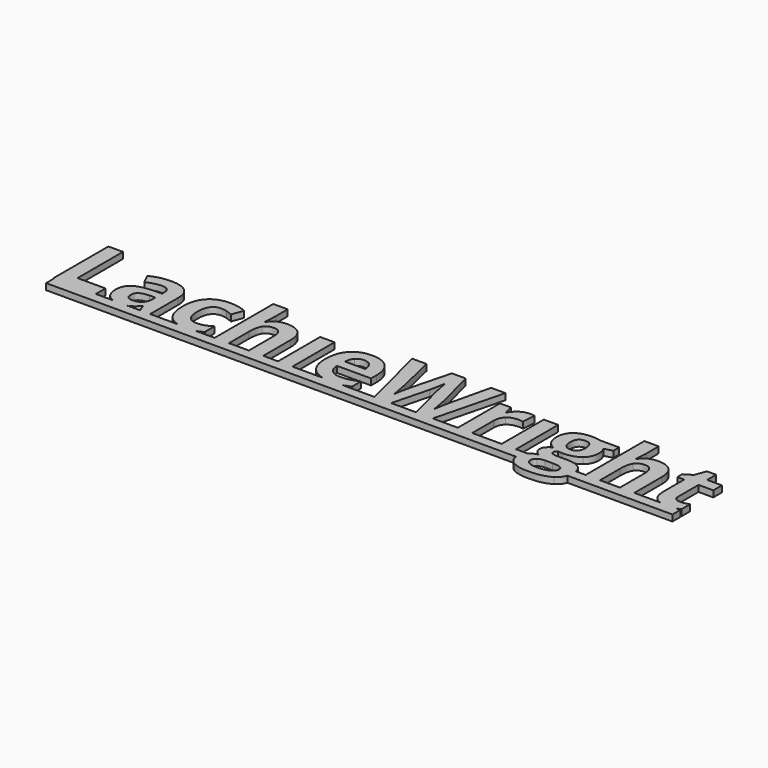
from build123d import *

# Parameters (mm, degrees)
F0_W     = 3.3911372586
F0_H     = 12.4329838212
F1_DEPTH = 1.47651
F3_DEPTH = 25


with BuildPart() as f1:
    # F0 (on Top) → F1 (new body)
    with BuildSketch(Plane.XY):
        Polygon((2.0460691749, 0), (2.218485577, 0), (12.0878208474, 0), (12.0878208474, 2.846704939), (5.4941405323, 2.846704939), (5.4941405323, 16.2582435831), (2.0460691749, 16.2582435831), align=None)
        with BuildLine():
            Line((12.0878208474, 0), (2.218485577, 0))
            Line((2.218485577, 0), (2.218485577, -2.3320410401))
            Line((2.218485577, -2.3320410401), (113.0944891919, -2.3320410401))
            add(Edge.make_bspline(
                [(113.0944891919, -2.3320410401), (113.0817953219, -2.1817343027), (113.0817953219, -2.0247188879)],
                knots=[0.9038659725, 0.9038659725, 0.9038659725, 1, 1, 1], degree=2))
            add(Edge.make_bspline(
                [(113.0817953219, -2.0247188879), (113.0817953219, -0.900270437), (113.7827964132, -0.1441144375)],
                knots=[0, 0, 0, 1, 1, 1], degree=2))
            add(Edge.make_bspline(
                [(113.7827964132, -0.1441144375), (113.8515240257, -0.0699793224), (113.9265451845, 0)],
                knots=[0, 0, 0, 0.0980420907, 0.0980420907, 0.0980420907], degree=2))
            Line((113.9265451845, 0), (111.2349954927, 0))
            Line((111.2349954927, 0), (107.8438582341, 0))
            Line((107.8438582341, 0), (100.8943398017, 0))
            Line((100.8943398017, 0), (97.5032025431, 0))
            Line((97.5032025431, 0), (91.585614651, 0))
            Line((91.585614651, 0), (87.6607202163, 0))
            Line((87.6607202163, 0), (81.7680409926, 0))
            Line((81.7680409926, 0), (77.8538217014, 0))
            Line((77.8538217014, 0), (70.157839457, 0))
            add(Edge.make_bspline(
                [(70.157839457, 0), (70.1414446078, -0.0035884674), (70.1250177919, -0.0071167623)],
                knots=[0.9837451644, 0.9837451644, 0.9837451644, 1, 1, 1], degree=2))
            add(Edge.make_bspline(
                [(70.1250177919, -0.0071167623), (69.1144375385, -0.2241780139), (67.6555012573, -0.2241780139)],
                knots=[0, 0, 0, 1, 1, 1], degree=2))
            add(Edge.make_bspline(
                [(67.6555012573, -0.2241780139), (66.5525473619, -0.2241780139), (65.6266267479, 0)],
                knots=[0, 0, 0, 0.3676861883, 0.3676861883, 0.3676861883], degree=2))
            Line((65.6266267479, 0), (58.4713194477, 0))
            Line((58.4713194477, 0), (55.0801821891, 0))
            Line((55.0801821891, 0), (51.5894102576, 0))
            Line((51.5894102576, 0), (48.198272999, 0))
            Line((48.198272999, 0), (43.5047682308, 0))
            Line((43.5047682308, 0), (40.1136309721, 0))
            Line((40.1136309721, 0), (35.662053282, 0))
            add(Edge.make_bspline(
                [(35.662053282, 0), (35.6158427474, -0.0120534345), (35.5695782132, -0.0231294776)],
                knots=[0.9449086109, 0.9449086109, 0.9449086109, 1, 1, 1], degree=2))
            add(Edge.make_bspline(
                [(35.5695782132, -0.0231294776), (34.7298002562, -0.2241780139), (33.4523414148, -0.2241780139)],
                knots=[0, 0, 0, 1, 1, 1], degree=2))
            add(Edge.make_bspline(
                [(33.4523414148, -0.2241780139), (32.3638402184, -0.2241780139), (31.4794899661, 0)],
                knots=[0, 0, 0, 0.1875523378, 0.1875523378, 0.1875523378], degree=2))
            Line((31.4794899661, 0), (24.9086682165, 0))
            Line((24.9086682165, 0), (22.542344736, 0))
            Line((22.542344736, 0), (19.5084661005, 0))
            add(Edge.make_bspline(
                [(19.5084661005, 0), (18.7366016501, -0.2241780139), (17.670920909, -0.2241780139)],
                knots=[0.2677635541, 0.2677635541, 0.2677635541, 1, 1, 1], degree=2))
            add(Edge.make_bspline(
                [(17.670920909, -0.2241780139), (16.8337878676, -0.2241780139), (16.1632315449, 0)],
                knots=[0, 0, 0, 0.4677071733, 0.4677071733, 0.4677071733], degree=2))
            Line((16.1632315449, 0), (12.0878208474, 0))
        make_face()
        with BuildLine():
            add(Edge.make_bspline(
                [(16.1632315449, 0), (15.4000781429, 0.2551347414), (14.8526830194, 0.8006357641)],
                knots=[0.4677071733, 0.4677071733, 0.4677071733, 1, 1, 1], degree=2))
            Line((16.1632315449, 0), (19.5084661005, 0))
            add(Edge.make_bspline(
                [(20.0336860084, 0.193931774), (19.790720787, 0.0819772112), (19.5084661005, 0)],
                knots=[0, 0, 0, 0.2677635541, 0.2677635541, 0.2677635541], degree=2))
            add(Edge.make_bspline(
                [(21.7950846895, 1.6902310576), (20.9410732078, 0.6120415619), (20.0336860084, 0.193931774)],
                knots=[0, 0, 0, 1, 1, 1], degree=2))
            Line((21.7950846895, 1.6902310576), (21.8840442188, 1.6902310576))
            Line((21.8840442188, 1.6902310576), (22.542344736, 0))
            Line((22.542344736, 0), (24.9086682165, 0))
            Line((24.9086682165, 0), (24.9086682165, 8.2839113726))
            add(Edge.make_bspline(
                [(23.5742752764, 11.598543436), (24.9086682165, 10.5078996062), (24.9086682165, 8.2839113726)],
                knots=[0, 0, 0, 1, 1, 1], degree=2))
            add(Edge.make_bspline(
                [(19.738340371, 12.6891872657), (22.2398823362, 12.6891872657), (23.5742752764, 11.598543436)],
                knots=[0, 0, 0, 1, 1, 1], degree=2))
            add(Edge.make_bspline(
                [(14.9807847417, 11.5647388148), (17.1264885895, 12.6891872657), (19.738340371, 12.6891872657)],
                knots=[0, 0, 0, 1, 1, 1], degree=2))
            Line((14.9807847417, 11.5647388148), (16.1016748114, 9.2731413389))
            add(Edge.make_bspline(
                [(19.6066802676, 10.1734117759), (18.1157185558, 10.1734117759), (16.1016748114, 9.2731413389)],
                knots=[0, 0, 0, 1, 1, 1], degree=2))
            add(Edge.make_bspline(
                [(21.5424396261, 8.2839113726), (21.5424396261, 10.1734117759), (19.6066802676, 10.1734117759)],
                knots=[0, 0, 0, 1, 1, 1], degree=2))
            Line((21.5424396261, 8.2839113726), (21.5424396261, 7.739479053))
            Line((21.5424396261, 7.739479053), (19.3825022536, 7.6718698107))
            add(Edge.make_bspline(
                [(15.2085211368, 6.6328225079), (16.5927314134, 7.5722351378), (19.3825022536, 7.6718698107)],
                knots=[0, 0, 0, 1, 1, 1], degree=2))
            add(Edge.make_bspline(
                [(13.8243108602, 3.7149499454), (13.8243108602, 5.6934098781), (15.2085211368, 6.6328225079)],
                knots=[0, 0, 0, 1, 1, 1], degree=2))
            add(Edge.make_bspline(
                [(14.8526830194, 0.8006357641), (13.8243108602, 1.8254495422), (13.8243108602, 3.7149499454)],
                knots=[0, 0, 0, 1, 1, 1], degree=2))
        make_face()
        with BuildLine():
            Line((20.229396973, 5.7147601651), (21.5424396261, 5.7610191204))
            Line((21.5424396261, 5.7610191204), (21.5424396261, 4.7362053423))
            add(Edge.make_bspline(
                [(20.8361009631, 2.9356644684), (21.5424396261, 3.6153152726), (21.5424396261, 4.7362053423)],
                knots=[0, 0, 0, 1, 1, 1], degree=2))
            add(Edge.make_bspline(
                [(18.9483797504, 2.2560136642), (20.1297623001, 2.2560136642), (20.8361009631, 2.9356644684)],
                knots=[0, 0, 0, 1, 1, 1], degree=2))
            add(Edge.make_bspline(
                [(17.3044076481, 3.6935996584), (17.3044076481, 2.2560136642), (18.9483797504, 2.2560136642)],
                knots=[0, 0, 0, 1, 1, 1], degree=2))
            add(Edge.make_bspline(
                [(18.0267590264, 5.1827821796), (17.3044076481, 4.6935047682), (17.3044076481, 3.6935996584)],
                knots=[0, 0, 0, 1, 1, 1], degree=2))
            add(Edge.make_bspline(
                [(20.229396973, 5.7147601651), (18.7491104047, 5.672059591), (18.0267590264, 5.1827821796)],
                knots=[0, 0, 0, 1, 1, 1], degree=2))
        make_face(mode=Mode.SUBTRACT)
        with BuildLine():
            Line((19.5084661005, 0), (16.1632315449, 0))
            add(Edge.make_bspline(
                [(17.670920909, -0.2241780139), (16.8337878676, -0.2241780139), (16.1632315449, 0)],
                knots=[0, 0, 0, 0.4677071733, 0.4677071733, 0.4677071733], degree=2))
            add(Edge.make_bspline(
                [(19.5084661005, 0), (18.7366016501, -0.2241780139), (17.670920909, -0.2241780139)],
                knots=[0.2677635541, 0.2677635541, 0.2677635541, 1, 1, 1], degree=2))
        make_face()
        with BuildLine():
            add(Edge.make_bspline(
                [(113.0944891919, -2.3320410401), (113.0817953219, -2.1817343027), (113.0817953219, -2.0247188879)],
                knots=[0.9038659725, 0.9038659725, 0.9038659725, 1, 1, 1], degree=2))
            Line((113.0944891919, -2.3320410401), (116.1558999712, -2.3320410401))
            add(Edge.make_bspline(
                [(116.0174597903, -1.7578402999), (116.0174597903, -2.0758882765), (116.1558999712, -2.3320410401)],
                knots=[0, 0, 0, 0.4537053946, 0.4537053946, 0.4537053946], degree=2))
            add(Edge.make_bspline(
                [(116.6455140675, -0.5960288466), (116.0174597903, -1.0354889216), (116.0174597903, -1.7578402999)],
                knots=[0, 0, 0, 1, 1, 1], degree=2))
            add(Edge.make_bspline(
                [(118.2058642122, -0.1565687716), (117.2735683446, -0.1565687716), (116.6455140675, -0.5960288466)],
                knots=[0, 0, 0, 1, 1, 1], degree=2))
            Line((118.2058642122, -0.1565687716), (119.963704512, -0.1565687716))
            add(Edge.make_bspline(
                [(121.8549841059, -0.4234473597), (121.2447217346, -0.1565687716), (119.963704512, -0.1565687716)],
                knots=[0, 0, 0, 1, 1, 1], degree=2))
            add(Edge.make_bspline(
                [(122.4652464772, -1.391327039), (122.4652464772, -0.6903259477), (121.8549841059, -0.4234473597)],
                knots=[0, 0, 0, 1, 1, 1], degree=2))
            add(Edge.make_bspline(
                [(122.0597952478, -2.3320410401), (122.4652464772, -1.9328648061), (122.4652464772, -1.391327039)],
                knots=[0.3737178865, 0.3737178865, 0.3737178865, 1, 1, 1], degree=2))
            Line((122.0597952478, -2.3320410401), (125.2332328811, -2.3320410401))
            add(Edge.make_bspline(
                [(125.4685201879, -0.8895952934), (125.4685201879, -1.6742444417), (125.2332328811, -2.3320410401)],
                knots=[0, 0, 0, 0.3597183273, 0.3597183273, 0.3597183273], degree=2))
            add(Edge.make_bspline(
                [(125.3840954484, 0), (125.4685201879, -0.4124558311), (125.4685201879, -0.8895952934)],
                knots=[0.7194792623, 0.7194792623, 0.7194792623, 1, 1, 1], degree=2))
            Line((125.3840954484, 0), (113.9265451845, 0))
            add(Edge.make_bspline(
                [(113.7827964132, -0.1441144375), (113.8515240257, -0.0699793224), (113.9265451845, 0)],
                knots=[0, 0, 0, 0.0980420907, 0.0980420907, 0.0980420907], degree=2))
            add(Edge.make_bspline(
                [(113.0817953219, -2.0247188879), (113.0817953219, -0.900270437), (113.7827964132, -0.1441144375)],
                knots=[0, 0, 0, 1, 1, 1], degree=2))
        make_face()
        with BuildLine():
            Line((116.1558999712, -2.3320410401), (113.0944891919, -2.3320410401))
            add(Edge.make_bspline(
                [(114.455330455, -4.565403046), (113.2138387862, -3.7452466327), (113.0944891919, -2.3320410401)],
                knots=[0, 0, 0, 0.9038659725, 0.9038659725, 0.9038659725], degree=2))
            add(Edge.make_bspline(
                [(118.4300422261, -5.4727902453), (115.8288655881, -5.4727902453), (114.455330455, -4.565403046)],
                knots=[0, 0, 0, 1, 1, 1], degree=2))
            add(Edge.make_bspline(
                [(123.6501874081, -4.2718365991), (121.8318546283, -5.4727902453), (118.4300422261, -5.4727902453)],
                knots=[0, 0, 0, 1, 1, 1], degree=2))
            add(Edge.make_bspline(
                [(125.2332328811, -2.3320410401), (124.8144325618, -3.5028879898), (123.6501874081, -4.2718365991)],
                knots=[0.3597183273, 0.3597183273, 0.3597183273, 1, 1, 1], degree=2))
            Line((125.2332328811, -2.3320410401), (122.0597952478, -2.3320410401))
            add(Edge.make_bspline(
                [(121.4315367462, -2.7577454097), (121.8178525621, -2.5702392822), (122.0597952478, -2.3320410401)],
                knots=[0, 0, 0, 0.3737178865, 0.3737178865, 0.3737178865], degree=2))
            add(Edge.make_bspline(
                [(118.5759358542, -3.2594771552), (120.3978270152, -3.2594771552), (121.4315367462, -2.7577454097)],
                knots=[0, 0, 0, 1, 1, 1], degree=2))
            add(Edge.make_bspline(
                [(116.6899938321, -2.8591592731), (117.362527874, -3.2594771552), (118.5759358542, -3.2594771552)],
                knots=[0, 0, 0, 1, 1, 1], degree=2))
            add(Edge.make_bspline(
                [(116.1558999712, -2.3320410401), (116.3225921131, -2.6404677737), (116.6899938321, -2.8591592731)],
                knots=[0.4537053946, 0.4537053946, 0.4537053946, 1, 1, 1], degree=2))
        make_face()
        with BuildLine():
            add(Edge.make_bspline(
                [(125.4685201879, -0.8895952934), (125.4685201879, -1.6742444417), (125.2332328811, -2.3320410401)],
                knots=[0, 0, 0, 0.3597183273, 0.3597183273, 0.3597183273], degree=2))
            Line((125.2332328811, -2.3320410401), (150, -2.3320410401))
            Line((150, -2.3320410401), (150, 0))
            Line((150, 0), (148.9757505124, 0))
            add(Edge.make_bspline(
                [(148.9757505124, 0), (148.0452741685, -0.2241780139), (146.8864164729, -0.2241780139)],
                knots=[0.3725049801, 0.3725049801, 0.3725049801, 1, 1, 1], degree=2))
            add(Edge.make_bspline(
                [(146.8864164729, -0.2241780139), (145.9369175261, -0.2241780139), (145.2282453922, 0)],
                knots=[0, 0, 0, 0.4664939231, 0.4664939231, 0.4664939231], degree=2))
            Line((145.2282453922, 0), (139.1362622764, 0))
            Line((139.1362622764, 0), (135.7451250178, 0))
            Line((135.7451250178, 0), (131.0516202496, 0))
            Line((131.0516202496, 0), (127.6604829909, 0))
            Line((127.6604829909, 0), (125.3840954484, 0))
            add(Edge.make_bspline(
                [(125.3840954484, 0), (125.4685201879, -0.4124558311), (125.4685201879, -0.8895952934)],
                knots=[0.7194792623, 0.7194792623, 0.7194792623, 1, 1, 1], degree=2))
        make_face()
        with BuildLine():
            add(Edge.make_bspline(
                [(113.9265451845, 0), (114.6167174049, 0.6437888347), (115.8395407316, 0.9358542487)],
                knots=[0.0980420907, 0.0980420907, 0.0980420907, 1, 1, 1], degree=2))
            Line((113.9265451845, 0), (125.3840954484, 0))
            add(Edge.make_bspline(
                [(124.395668264, 1.6902310576), (125.1675629747, 1.0578662365), (125.3840954484, 0)],
                knots=[0, 0, 0, 0.7194792623, 0.7194792623, 0.7194792623], degree=2))
            add(Edge.make_bspline(
                [(121.2767471652, 2.5691512075), (123.3228163401, 2.5691512075), (124.395668264, 1.6902310576)],
                knots=[0, 0, 0, 1, 1, 1], degree=2))
            Line((121.2767471652, 2.5691512075), (119.1630687479, 2.5691512075))
            add(Edge.make_bspline(
                [(117.2949186317, 3.3021777293), (117.2949186317, 2.5691512075), (119.1630687479, 2.5691512075)],
                knots=[0, 0, 0, 1, 1, 1], degree=2))
            add(Edge.make_bspline(
                [(117.8180006642, 4.1917730227), (117.2949186317, 3.7932343313), (117.2949186317, 3.3021777293)],
                knots=[0, 0, 0, 1, 1, 1], degree=2))
            Line((117.8180006642, 4.1917730227), (118.3197324097, 4.1383973051))
            Line((118.3197324097, 4.1383973051), (118.9317739716, 4.1028134934))
            add(Edge.make_bspline(
                [(122.8050718793, 5.220145182), (121.4084072686, 4.1028134934), (118.9317739716, 4.1028134934)],
                knots=[0, 0, 0, 1, 1, 1], degree=2))
            add(Edge.make_bspline(
                [(124.20173649, 8.3408454714), (124.20173649, 6.3374768705), (122.8050718793, 5.220145182)],
                knots=[0, 0, 0, 1, 1, 1], degree=2))
            add(Edge.make_bspline(
                [(123.6679793139, 10.2089955876), (124.20173649, 9.3727760118), (124.20173649, 8.3408454714)],
                knots=[0, 0, 0, 1, 1, 1], degree=2))
            Line((123.6679793139, 10.2089955876), (125.614413816, 10.7071689519))
            Line((125.614413816, 10.7071689519), (125.614413816, 12.4329838212))
            Line((125.614413816, 12.4329838212), (121.2767471652, 12.4329838212))
            add(Edge.make_bspline(
                [(120.3604640129, 12.5699814964), (121.0774778194, 12.4756843953), (121.2767471652, 12.4329838212)],
                knots=[0, 0, 0, 1, 1, 1], degree=2))
            add(Edge.make_bspline(
                [(119.1203681738, 12.6642785975), (119.6434502064, 12.6642785975), (120.3604640129, 12.5699814964)],
                knots=[0, 0, 0, 1, 1, 1], degree=2))
            add(Edge.make_bspline(
                [(115.3378089861, 11.5522844807), (116.6615267827, 12.6642785975), (119.1203681738, 12.6642785975)],
                knots=[0, 0, 0, 1, 1, 1], degree=2))
            add(Edge.make_bspline(
                [(114.0140911894, 8.4084547137), (114.0140911894, 10.4402903639), (115.3378089861, 11.5522844807)],
                knots=[0, 0, 0, 1, 1, 1], degree=2))
            add(Edge.make_bspline(
                [(114.5869905584, 6.2040375765), (114.0140911894, 7.1381126346), (114.0140911894, 8.4084547137)],
                knots=[0, 0, 0, 1, 1, 1], degree=2))
            add(Edge.make_bspline(
                [(116.1384447502, 4.8500735399), (115.1598899274, 5.2699625184), (114.5869905584, 6.2040375765)],
                knots=[0, 0, 0, 1, 1, 1], degree=2))
            add(Edge.make_bspline(
                [(114.9481662476, 3.9195568629), (115.3591592731, 4.3910423685), (116.1384447502, 4.8500735399)],
                knots=[0, 0, 0, 1, 1, 1], degree=2))
            add(Edge.make_bspline(
                [(114.537173222, 2.7363951226), (114.537173222, 3.4480713574), (114.9481662476, 3.9195568629)],
                knots=[0, 0, 0, 1, 1, 1], degree=2))
            add(Edge.make_bspline(
                [(114.9268159605, 1.6617640082), (114.537173222, 2.1670541348), (114.537173222, 2.7363951226)],
                knots=[0, 0, 0, 1, 1, 1], degree=2))
            add(Edge.make_bspline(
                [(115.8395407316, 0.9358542487), (115.3164586991, 1.1564738815), (114.9268159605, 1.6617640082)],
                knots=[0, 0, 0, 1, 1, 1], degree=2))
        make_face()
        with BuildLine():
            add(Edge.make_bspline(
                [(117.2522180576, 8.3621957584), (117.2522180576, 7.3516155051), (117.7130284196, 6.7609242302)],
                knots=[0, 0, 0, 1, 1, 1], degree=2))
            add(Edge.make_bspline(
                [(119.1203681738, 10.6075342791), (117.2522180576, 10.6075342791), (117.2522180576, 8.3621957584)],
                knots=[0, 0, 0, 1, 1, 1], degree=2))
            add(Edge.make_bspline(
                [(120.9636096219, 8.3621957584), (120.9636096219, 10.6075342791), (119.1203681738, 10.6075342791)],
                knots=[0, 0, 0, 1, 1, 1], degree=2))
            add(Edge.make_bspline(
                [(120.5188119751, 6.7609242302), (120.9636096219, 7.3516155051), (120.9636096219, 8.3621957584)],
                knots=[0, 0, 0, 1, 1, 1], degree=2))
            add(Edge.make_bspline(
                [(119.1203681738, 6.1702329554), (120.0740143284, 6.1702329554), (120.5188119751, 6.7609242302)],
                knots=[0, 0, 0, 1, 1, 1], degree=2))
            add(Edge.make_bspline(
                [(117.7130284196, 6.7609242302), (118.1738387816, 6.1702329554), (119.1203681738, 6.1702329554)],
                knots=[0, 0, 0, 1, 1, 1], degree=2))
        make_face(mode=Mode.SUBTRACT)
        with BuildLine():
            add(Edge.make_bspline(
                [(31.4794899661, 0), (27.6486217204, 0.9711044157), (27.6486217204, 6.1488826683)],
                knots=[0.1875523378, 0.1875523378, 0.1875523378, 1, 1, 1], degree=2))
            Line((31.4794899661, 0), (35.662053282, 0))
            add(Edge.make_bspline(
                [(37.2313422214, 0.7010010912), (36.4546405236, 0.2067363745), (35.662053282, 0)],
                knots=[0, 0, 0, 0.9449086109, 0.9449086109, 0.9449086109], degree=2))
            Line((37.2313422214, 0.7010010912), (37.2313422214, 3.6046401291))
            add(Edge.make_bspline(
                [(35.5642406415, 2.7844332685), (36.3986810267, 3.0459742848), (37.2313422214, 3.6046401291)],
                knots=[0, 0, 0, 1, 1, 1], degree=2))
            add(Edge.make_bspline(
                [(33.7512454334, 2.5228922522), (34.7298002562, 2.5228922522), (35.5642406415, 2.7844332685)],
                knots=[0, 0, 0, 1, 1, 1], degree=2))
            add(Edge.make_bspline(
                [(31.1038098401, 6.1702329554), (31.1038098401, 2.5228922522), (33.7512454334, 2.5228922522)],
                knots=[0, 0, 0, 1, 1, 1], degree=2))
            add(Edge.make_bspline(
                [(33.7512454334, 9.9314418561), (31.1038098401, 9.9314418561), (31.1038098401, 6.1702329554)],
                knots=[0, 0, 0, 1, 1, 1], degree=2))
            add(Edge.make_bspline(
                [(35.1301181383, 9.725055748), (34.4415713811, 9.9314418561), (33.7512454334, 9.9314418561)],
                knots=[0, 0, 0, 1, 1, 1], degree=2))
            add(Edge.make_bspline(
                [(36.6193006595, 9.1948569531), (35.8186648954, 9.5186696399), (35.1301181383, 9.725055748)],
                knots=[0, 0, 0, 1, 1, 1], degree=2))
            Line((36.6193006595, 9.1948569531), (37.6227641505, 11.8209422593))
            add(Edge.make_bspline(
                [(33.7512454334, 12.6642785975), (35.9076244247, 12.6642785975), (37.6227641505, 11.8209422593)],
                knots=[0, 0, 0, 1, 1, 1], degree=2))
            add(Edge.make_bspline(
                [(29.2267637709, 10.9918394458), (30.8049058215, 12.6642785975), (33.7512454334, 12.6642785975)],
                knots=[0, 0, 0, 1, 1, 1], degree=2))
            add(Edge.make_bspline(
                [(27.6486217204, 6.1488826683), (27.6486217204, 9.3194002942), (29.2267637709, 10.9918394458)],
                knots=[0, 0, 0, 1, 1, 1], degree=2))
        make_face()
        with BuildLine():
            Line((35.662053282, 0), (31.4794899661, 0))
            add(Edge.make_bspline(
                [(33.4523414148, -0.2241780139), (32.3638402184, -0.2241780139), (31.4794899661, 0)],
                knots=[0, 0, 0, 0.1875523378, 0.1875523378, 0.1875523378], degree=2))
            add(Edge.make_bspline(
                [(35.5695782132, -0.0231294776), (34.7298002562, -0.2241780139), (33.4523414148, -0.2241780139)],
                knots=[0, 0, 0, 1, 1, 1], degree=2))
            add(Edge.make_bspline(
                [(35.662053282, 0), (35.6158427474, -0.0120534345), (35.5695782132, -0.0231294776)],
                knots=[0.9449086109, 0.9449086109, 0.9449086109, 1, 1, 1], degree=2))
        make_face()
        with Locations((109.5394268634, 6.2164919106)):
            Rectangle(F0_W, F0_H)
        with BuildLine():
            Line((127.6604829909, 17.3044076481), (127.6604829909, 0))
            Line((127.6604829909, 0), (131.0516202496, 0))
            Line((131.0516202496, 0), (131.0516202496, 5.8499786497))
            add(Edge.make_bspline(
                [(131.6850120985, 8.9849124638), (131.0516202496, 8.0170327846), (131.0516202496, 5.8499786497)],
                knots=[0, 0, 0, 1, 1, 1], degree=2))
            add(Edge.make_bspline(
                [(133.7417564169, 9.9527921431), (132.3184039474, 9.9527921431), (131.6850120985, 8.9849124638)],
                knots=[0, 0, 0, 1, 1, 1], degree=2))
            add(Edge.make_bspline(
                [(135.7451250178, 7.2626559757), (135.7451250178, 9.9527921431), (133.7417564169, 9.9527921431)],
                knots=[0, 0, 0, 1, 1, 1], degree=2))
            Line((135.7451250178, 7.2626559757), (135.7451250178, 0))
            Line((135.7451250178, 0), (139.1362622764, 0))
            Line((139.1362622764, 0), (139.1362622764, 8.1059923139))
            add(Edge.make_bspline(
                [(138.0029178726, 11.486454429), (139.1362622764, 10.3086302605), (139.1362622764, 8.1059923139)],
                knots=[0, 0, 0, 1, 1, 1], degree=2))
            add(Edge.make_bspline(
                [(134.6776106657, 12.6642785975), (136.8695734687, 12.6642785975), (138.0029178726, 11.486454429)],
                knots=[0, 0, 0, 1, 1, 1], degree=2))
            add(Edge.make_bspline(
                [(131.0729705366, 10.8423874365), (132.208094131, 12.6642785975), (134.6776106657, 12.6642785975)],
                knots=[0, 0, 0, 1, 1, 1], degree=2))
            Line((131.0729705366, 10.8423874365), (130.8950514779, 10.8423874365))
            Line((130.8950514779, 10.8423874365), (130.9733358637, 11.8422925464))
            add(Edge.make_bspline(
                [(131.0516202496, 13.7780519049), (131.0516202496, 13.3652796888), (130.9733358637, 11.8422925464)],
                knots=[0, 0, 0, 1, 1, 1], degree=2))
            Line((131.0516202496, 13.7780519049), (131.0516202496, 17.3044076481))
            Line((131.0516202496, 17.3044076481), (127.6604829909, 17.3044076481))
        make_face()
        with BuildLine():
            Line((40.1136309721, 17.3044076481), (40.1136309721, 0))
            Line((40.1136309721, 0), (43.5047682308, 0))
            Line((43.5047682308, 0), (43.5047682308, 5.8499786497))
            add(Edge.make_bspline(
                [(44.1381600797, 8.9849124638), (43.5047682308, 8.0170327846), (43.5047682308, 5.8499786497)],
                knots=[0, 0, 0, 1, 1, 1], degree=2))
            add(Edge.make_bspline(
                [(46.1949043982, 9.9527921431), (44.7715519286, 9.9527921431), (44.1381600797, 8.9849124638)],
                knots=[0, 0, 0, 1, 1, 1], degree=2))
            add(Edge.make_bspline(
                [(48.198272999, 7.2626559757), (48.198272999, 9.9527921431), (46.1949043982, 9.9527921431)],
                knots=[0, 0, 0, 1, 1, 1], degree=2))
            Line((48.198272999, 7.2626559757), (48.198272999, 0))
            Line((48.198272999, 0), (51.5894102576, 0))
            Line((51.5894102576, 0), (51.5894102576, 8.1059923139))
            add(Edge.make_bspline(
                [(50.4560658538, 11.486454429), (51.5894102576, 10.3086302605), (51.5894102576, 8.1059923139)],
                knots=[0, 0, 0, 1, 1, 1], degree=2))
            add(Edge.make_bspline(
                [(47.1307586469, 12.6642785975), (49.3227214499, 12.6642785975), (50.4560658538, 11.486454429)],
                knots=[0, 0, 0, 1, 1, 1], degree=2))
            add(Edge.make_bspline(
                [(43.5261185178, 10.8423874365), (44.6612421123, 12.6642785975), (47.1307586469, 12.6642785975)],
                knots=[0, 0, 0, 1, 1, 1], degree=2))
            Line((43.5261185178, 10.8423874365), (43.3481994591, 10.8423874365))
            Line((43.3481994591, 10.8423874365), (43.4264838449, 11.8422925464))
            add(Edge.make_bspline(
                [(43.5047682308, 13.7780519049), (43.5047682308, 13.3652796888), (43.4264838449, 11.8422925464)],
                knots=[0, 0, 0, 1, 1, 1], degree=2))
            Line((43.5047682308, 13.7780519049), (43.5047682308, 17.3044076481))
            Line((43.5047682308, 17.3044076481), (40.1136309721, 17.3044076481))
        make_face()
        with BuildLine():
            add(Edge.make_bspline(
                [(148.9757505124, 0), (148.0452741685, -0.2241780139), (146.8864164729, -0.2241780139)],
                knots=[0.3725049801, 0.3725049801, 0.3725049801, 1, 1, 1], degree=2))
            Line((148.9757505124, 0), (145.2282453922, 0))
            add(Edge.make_bspline(
                [(146.8864164729, -0.2241780139), (145.9369175261, -0.2241780139), (145.2282453922, 0)],
                knots=[0, 0, 0, 0.4664939231, 0.4664939231, 0.4664939231], degree=2))
        make_face()
        with BuildLine():
            Line((145.2282453922, 0), (148.9757505124, 0))
            add(Edge.make_bspline(
                [(150, 0.3451629739), (149.5281167638, 0.1330806205), (148.9757505124, 0)],
                knots=[0, 0, 0, 0.3725049801, 0.3725049801, 0.3725049801], degree=2))
            Line((150, 0.3451629739), (150, 2.8680552261))
            add(Edge.make_bspline(
                [(147.8649712957, 2.4801916781), (148.7545665892, 2.4801916781), (150, 2.8680552261)],
                knots=[0, 0, 0, 1, 1, 1], degree=2))
            add(Edge.make_bspline(
                [(146.7903401812, 2.825354652), (147.1959956351, 2.4801916781), (147.8649712957, 2.4801916781)],
                knots=[0, 0, 0, 1, 1, 1], degree=2))
            add(Edge.make_bspline(
                [(146.3846847274, 3.8928690041), (146.3846847274, 3.1705176258), (146.7903401812, 2.825354652)],
                knots=[0, 0, 0, 1, 1, 1], degree=2))
            Line((146.3846847274, 3.8928690041), (146.3846847274, 9.8851829008))
            Line((146.3846847274, 9.8851829008), (149.8647815154, 9.8851829008))
            Line((149.8647815154, 9.8851829008), (149.8647815154, 12.4329838212))
            Line((149.8647815154, 12.4329838212), (146.3846847274, 12.4329838212))
            Line((146.3846847274, 12.4329838212), (146.3846847274, 15.0804194145))
            Line((146.3846847274, 15.0804194145), (144.2176305926, 15.0804194145))
            Line((144.2176305926, 15.0804194145), (143.2390757698, 12.4543341083))
            Line((143.2390757698, 12.4543341083), (141.3709256536, 11.3192105138))
            Line((141.3709256536, 11.3192105138), (141.3709256536, 9.8851829008))
            Line((141.3709256536, 9.8851829008), (142.9935474688, 9.8851829008))
            Line((142.9935474688, 9.8851829008), (142.9935474688, 3.8928690041))
            add(Edge.make_bspline(
                [(143.9222849552, 0.8059733359), (142.9935474688, 1.8361246857), (142.9935474688, 3.8928690041)],
                knots=[0, 0, 0, 1, 1, 1], degree=2))
            add(Edge.make_bspline(
                [(145.2282453922, 0), (144.417772048, 0.2563813306), (143.9222849552, 0.8059733359)],
                knots=[0.4664939231, 0.4664939231, 0.4664939231, 1, 1, 1], degree=2))
        make_face()
        with BuildLine():
            Line((97.5032025431, 0), (100.8943398017, 0))
            Line((100.8943398017, 0), (100.8943398017, 6.326801727))
            add(Edge.make_bspline(
                [(101.801727001, 8.6628789676), (100.8943398017, 7.8284385823), (100.8943398017, 6.326801727)],
                knots=[0, 0, 0, 1, 1, 1], degree=2))
            add(Edge.make_bspline(
                [(104.3317360156, 9.4973193528), (102.7091142003, 9.4973193528), (101.801727001, 8.6628789676)],
                knots=[0, 0, 0, 1, 1, 1], degree=2))
            add(Edge.make_bspline(
                [(105.3316411254, 9.3870095365), (104.9188689092, 9.4973193528), (104.3317360156, 9.4973193528)],
                knots=[0, 0, 0, 1, 1, 1], degree=2))
            Line((105.3316411254, 9.3870095365), (105.5878445699, 12.5646439247))
            add(Edge.make_bspline(
                [(104.4420458319, 12.6642785975), (105.1323717797, 12.6642785975), (105.5878445699, 12.5646439247)],
                knots=[0, 0, 0, 1, 1, 1], degree=2))
            add(Edge.make_bspline(
                [(102.3016795559, 12.0255491768), (103.2855719505, 12.6642785975), (104.4420458319, 12.6642785975)],
                knots=[0, 0, 0, 1, 1, 1], degree=2))
            add(Edge.make_bspline(
                [(100.73777103, 10.340655691), (101.3177871614, 11.3868197561), (102.3016795559, 12.0255491768)],
                knots=[0, 0, 0, 1, 1, 1], degree=2))
            Line((100.73777103, 10.340655691), (100.574085496, 10.340655691))
            Line((100.574085496, 10.340655691), (100.0723537505, 12.4329838212))
            Line((100.0723537505, 12.4329838212), (97.5032025431, 12.4329838212))
            Line((97.5032025431, 12.4329838212), (97.5032025431, 0))
        make_face()
        with BuildLine():
            Line((87.6607202163, 0), (91.585614651, 0))
            Line((91.585614651, 0), (95.7240119562, 16.2582435831))
            Line((95.7240119562, 16.2582435831), (92.3293163164, 16.2582435831))
            Line((92.3293163164, 16.2582435831), (90.2618968544, 7.3836409356))
            add(Edge.make_bspline(
                [(89.8170992077, 5.2877544243), (90.0626275087, 6.5830051715), (90.2618968544, 7.3836409356)],
                knots=[0, 0, 0, 1, 1, 1], degree=2))
            add(Edge.make_bspline(
                [(89.4612610903, 3.1242586706), (89.5715709067, 3.992503677), (89.8170992077, 5.2877544243)],
                knots=[0, 0, 0, 1, 1, 1], degree=2))
            add(Edge.make_bspline(
                [(89.1072021635, 5.2824168525), (89.3402761304, 4.0245291076), (89.4612610903, 3.1242586706)],
                knots=[0, 0, 0, 1, 1, 1], degree=2))
            add(Edge.make_bspline(
                [(88.717559425, 7.1487877781), (88.8741281966, 6.5403045974), (89.1072021635, 5.2824168525)],
                knots=[0, 0, 0, 1, 1, 1], degree=2))
            Line((88.717559425, 7.1487877781), (86.3476775632, 16.2582435831))
            Line((86.3476775632, 16.2582435831), (83.0917587892, 16.2582435831))
            Line((83.0917587892, 16.2582435831), (80.7218769275, 7.1487877781))
            add(Edge.make_bspline(
                [(80.271741709, 5.0867058879), (80.5119324382, 6.4157612563), (80.7218769275, 7.1487877781)],
                knots=[0, 0, 0, 1, 1, 1], degree=2))
            add(Edge.make_bspline(
                [(79.9639417374, 3.1242586706), (80.0315509797, 3.7576505195), (80.271741709, 5.0867058879)],
                knots=[0, 0, 0, 1, 1, 1], degree=2))
            add(Edge.make_bspline(
                [(79.177539498, 7.3836409356), (79.7219718176, 4.9247995445), (79.9639417374, 3.1242586706)],
                knots=[0, 0, 0, 1, 1, 1], degree=2))
            Line((79.177539498, 7.3836409356), (77.0958865114, 16.2582435831))
            Line((77.0958865114, 16.2582435831), (73.7047492527, 16.2582435831))
            Line((73.7047492527, 16.2582435831), (77.8538217014, 0))
            Line((77.8538217014, 0), (81.7680409926, 0))
            Line((81.7680409926, 0), (83.9564454144, 8.5187645301))
            add(Edge.make_bspline(
                [(84.3692176306, 10.4136025051), (84.1023390426, 9.0845471367), (83.9564454144, 8.5187645301)],
                knots=[0, 0, 0, 1, 1, 1], degree=2))
            add(Edge.make_bspline(
                [(84.7037054609, 12.3440242919), (84.6360962186, 11.7426578735), (84.3692176306, 10.4136025051)],
                knots=[0, 0, 0, 1, 1, 1], degree=2))
            add(Edge.make_bspline(
                [(85.0417516724, 10.4242776486), (84.746406035, 11.8529676899), (84.7037054609, 12.3440242919)],
                knots=[0, 0, 0, 1, 1, 1], degree=2))
            add(Edge.make_bspline(
                [(85.4580822698, 8.5401148171), (85.3370973099, 8.9955876073), (85.0417516724, 10.4242776486)],
                knots=[0, 0, 0, 1, 1, 1], degree=2))
            Line((85.4580822698, 8.5401148171), (87.6607202163, 0))
        make_face()
        with Locations((56.7757508184, 6.2164919106)):
            Rectangle(F0_W, F0_H)
        with BuildLine():
            add(Edge.make_bspline(
                [(65.6266267479, 0), (64.0343113129, 0.3855212924), (62.9655548702, 1.434027613)],
                knots=[0.3676861883, 0.3676861883, 0.3676861883, 1, 1, 1], degree=2))
            Line((65.6266267479, 0), (70.157839457, 0))
            add(Edge.make_bspline(
                [(72.0251933387, 0.654742136), (71.1500582705, 0.2171746019), (70.157839457, 0)],
                knots=[0, 0, 0, 0.9837451644, 0.9837451644, 0.9837451644], degree=2))
            Line((72.0251933387, 0.654742136), (72.0251933387, 3.2808274422))
            add(Edge.make_bspline(
                [(69.9364235897, 2.5353465863), (70.9363286995, 2.7684205532), (72.0251933387, 3.2808274422)],
                knots=[0, 0, 0, 1, 1, 1], degree=2))
            add(Edge.make_bspline(
                [(67.8120700289, 2.3022726194), (68.9365184799, 2.3022726194), (69.9364235897, 2.5353465863)],
                knots=[0, 0, 0, 1, 1, 1], degree=2))
            add(Edge.make_bspline(
                [(65.5667315083, 3.1135835271), (66.3673672724, 2.3022726194), (67.8120700289, 2.3022726194)],
                knots=[0, 0, 0, 1, 1, 1], degree=2))
            add(Edge.make_bspline(
                [(64.7091616454, 5.3695971913), (64.7660957442, 3.9248944347), (65.5667315083, 3.1135835271)],
                knots=[0, 0, 0, 1, 1, 1], degree=2))
            Line((64.7091616454, 5.3695971913), (72.7261944299, 5.3695971913))
            Line((72.7261944299, 5.3695971913), (72.7261944299, 7.0171276747))
            add(Edge.make_bspline(
                [(71.2583621958, 11.1644209328), (72.7261944299, 9.664563268), (72.7261944299, 7.0171276747)],
                knots=[0, 0, 0, 1, 1, 1], degree=2))
            add(Edge.make_bspline(
                [(67.157327893, 12.6642785975), (69.7905299616, 12.6642785975), (71.2583621958, 11.1644209328)],
                knots=[0, 0, 0, 1, 1, 1], degree=2))
            add(Edge.make_bspline(
                [(62.837453148, 10.9580348247), (64.3995824833, 12.6642785975), (67.157327893, 12.6642785975)],
                knots=[0, 0, 0, 1, 1, 1], degree=2))
            add(Edge.make_bspline(
                [(61.2753238127, 6.1275323813), (61.2753238127, 9.2517910519), (62.837453148, 10.9580348247)],
                knots=[0, 0, 0, 1, 1, 1], degree=2))
            add(Edge.make_bspline(
                [(62.9655548702, 1.434027613), (61.2753238127, 3.09223324), (61.2753238127, 6.1275323813)],
                knots=[0, 0, 0, 1, 1, 1], degree=2))
        make_face()
        with BuildLine():
            add(Edge.make_bspline(
                [(67.17867818, 10.2516961617), (66.1004886843, 10.2516961617), (65.4884471225, 9.5684869763)],
                knots=[0, 0, 0, 1, 1, 1], degree=2))
            add(Edge.make_bspline(
                [(68.8902595246, 9.5684869763), (68.2568676757, 10.2516961617), (67.17867818, 10.2516961617)],
                knots=[0, 0, 0, 1, 1, 1], degree=2))
            add(Edge.make_bspline(
                [(69.5485600418, 7.6291692366), (69.5236513735, 8.885277791), (68.8902595246, 9.5684869763)],
                knots=[0, 0, 0, 1, 1, 1], degree=2))
            Line((69.5485600418, 7.6291692366), (64.7874460312, 7.6291692366))
            add(Edge.make_bspline(
                [(65.4884471225, 9.5684869763), (64.8764055606, 8.885277791), (64.7874460312, 7.6291692366)],
                knots=[0, 0, 0, 1, 1, 1], degree=2))
        make_face(mode=Mode.SUBTRACT)
        with BuildLine():
            Line((70.157839457, 0), (65.6266267479, 0))
            add(Edge.make_bspline(
                [(67.6555012573, -0.2241780139), (66.5525473619, -0.2241780139), (65.6266267479, 0)],
                knots=[0, 0, 0, 0.3676861883, 0.3676861883, 0.3676861883], degree=2))
            add(Edge.make_bspline(
                [(70.1250177919, -0.0071167623), (69.1144375385, -0.2241780139), (67.6555012573, -0.2241780139)],
                knots=[0, 0, 0, 1, 1, 1], degree=2))
            add(Edge.make_bspline(
                [(70.157839457, 0), (70.1414446078, -0.0035884674), (70.1250177919, -0.0071167623)],
                knots=[0.9837451644, 0.9837451644, 0.9837451644, 1, 1, 1], degree=2))
        make_face()
        with BuildLine():
            add(Edge.make_bspline(
                [(54.934288561, 15.6462020212), (54.934288561, 17.3044076481), (56.7810883902, 17.3044076481)],
                knots=[0, 0, 0, 1, 1, 1], degree=2))
            add(Edge.make_bspline(
                [(56.7810883902, 13.9773212507), (54.934288561, 13.9773212507), (54.934288561, 15.6462020212)],
                knots=[0, 0, 0, 1, 1, 1], degree=2))
            add(Edge.make_bspline(
                [(58.1670778574, 14.4167813256), (57.7062674954, 13.9773212507), (56.7810883902, 13.9773212507)],
                knots=[0, 0, 0, 1, 1, 1], degree=2))
            add(Edge.make_bspline(
                [(58.6278882194, 15.6462020212), (58.6278882194, 14.8562414006), (58.1670778574, 14.4167813256)],
                knots=[0, 0, 0, 1, 1, 1], degree=2))
            add(Edge.make_bspline(
                [(56.7810883902, 17.3044076481), (58.6278882194, 17.3044076481), (58.6278882194, 15.6462020212)],
                knots=[0, 0, 0, 1, 1, 1], degree=2))
        make_face()
        with BuildLine():
            add(Edge.make_bspline(
                [(107.697964606, 15.6462020212), (107.697964606, 17.3044076481), (109.5447644352, 17.3044076481)],
                knots=[0, 0, 0, 1, 1, 1], degree=2))
            add(Edge.make_bspline(
                [(109.5447644352, 13.9773212507), (107.697964606, 13.9773212507), (107.697964606, 15.6462020212)],
                knots=[0, 0, 0, 1, 1, 1], degree=2))
            add(Edge.make_bspline(
                [(110.9307539024, 14.4167813256), (110.4699435404, 13.9773212507), (109.5447644352, 13.9773212507)],
                knots=[0, 0, 0, 1, 1, 1], degree=2))
            add(Edge.make_bspline(
                [(111.3915642644, 15.6462020212), (111.3915642644, 14.8562414006), (110.9307539024, 14.4167813256)],
                knots=[0, 0, 0, 1, 1, 1], degree=2))
            add(Edge.make_bspline(
                [(109.5447644352, 17.3044076481), (111.3915642644, 17.3044076481), (111.3915642644, 15.6462020212)],
                knots=[0, 0, 0, 1, 1, 1], degree=2))
        make_face()
    extrude(amount=-F1_DEPTH)

    # F2 (on face) → F3 (cut)
    with BuildSketch(Plane.XY):
        Polygon((51.6566485167, 26.3951104134), (47.9684360325, 19.0009754151), (51.9117750227, 13.2767660543), (61.2378232181, 13.6498082429), (66.1806315184, 20.5510836095), (106.100961566, 15.0714442134), (108.2903370261, 13.1037635729), (113.532975316, 14.026994817), (113.1146475673, 25.673225522), align=None)
    extrude(amount=-F3_DEPTH, mode=Mode.SUBTRACT)


solid = f1.part
